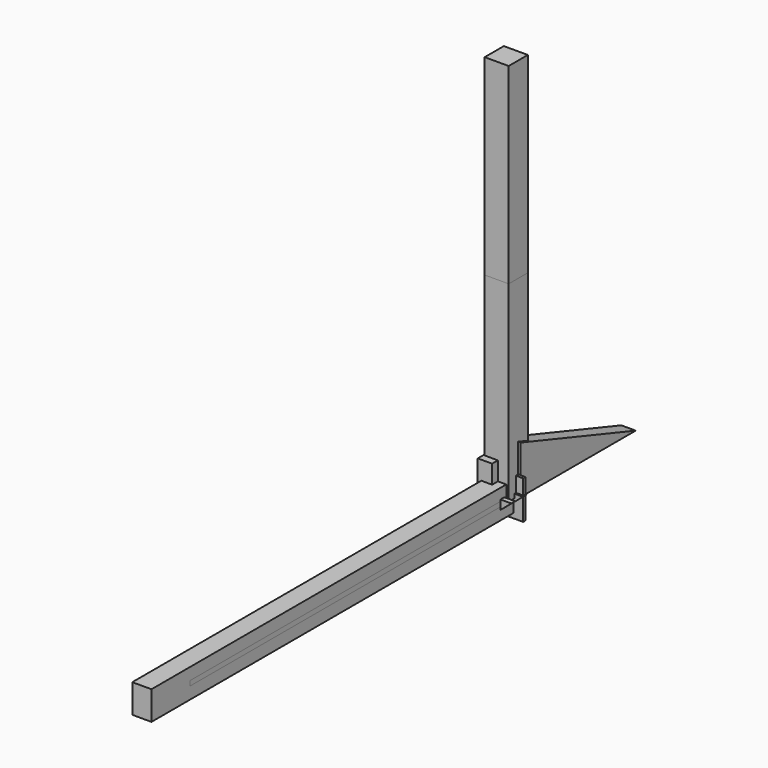
from build123d import *

# Parameters (mm, degrees)
F0_W      = 250
F0_H      = 250
F1_DEPTH  = 4000
F2_W      = 200
F2_H      = 50
F3_DEPTH  = 3500
F4_W      = 200
F4_H      = 300
F5_DEPTH  = 4750
F7_DEPTH  = 200
F8_W      = 300
F8_H      = 100
F9_DEPTH  = 300.001
F10_W     = 200
F10_H     = 50
F11_DEPTH = 4250
F12_W     = 100
F12_H     = 100
F13_DEPTH = 300
F14_W     = 400
F14_H     = 400
F15_DEPTH = 30
F17_DEPTH = 150
F18_W     = 250
F18_H     = 250
F19_DEPTH = 2000


with BuildPart() as f1:
    # F0 (on Top) → F1 (new body)
    with BuildSketch(Plane.XY):
        Rectangle(F0_W, F0_H)
    extrude(amount=F1_DEPTH)


with BuildPart() as f3:
    # F2 (on Top) → F3 (new body)
    with BuildSketch(Plane.XY):
        Rectangle(F2_W, F2_H)
    extrude(amount=F3_DEPTH)


with BuildPart() as f5:
    # F4 (on Front) → F5 (new body)
    with BuildSketch(Plane.XZ):
        Rectangle(F4_W, F4_H)
    extrude(amount=F5_DEPTH)


with BuildPart() as f7:
    # F6 (on Front) → F7 (new body)
    with BuildSketch(Plane.XZ):
        Polygon((212.7028834443, 42.9310392426), (-137.2971165557, 42.9310392426), (-137.2971165557, -257.0689607574), align=None)
    extrude(amount=F7_DEPTH)

    # F8 (on face) → F9 (cut, through all)
    with BuildSketch(Plane.XY.offset(42.9310392426)):
        with Locations((62.7028834443, -100)):
            Rectangle(F8_W, F8_H)
    extrude(amount=-F9_DEPTH, mode=Mode.SUBTRACT)

    # F12 (on face) → F13 (join)
    with BuildSketch(Plane.XY.offset(42.9310392426)):
        Polygon((12.7028834443, 0), (-137.2971165557, 0), (-137.2971165557, -200), (12.7028834443, -200), (12.7028834443, -150), (-87.2971165557, -150), (-87.2971165557, -50), (12.7028834443, -50), align=None)
        with Locations((-37.2971165557, -100)):
            Rectangle(F12_W, F12_H)
    extrude(amount=F13_DEPTH)


with BuildPart() as f11:
    # F10 (on Front) → F11 (new body)
    with BuildSketch(Plane.XZ):
        Rectangle(F10_W, F10_H)
    extrude(amount=F11_DEPTH)


with BuildPart() as f15:
    # F14 (on Front) → F15 (new body)
    with BuildSketch(Plane.XZ):
        Rectangle(F14_W, F14_H)
    extrude(amount=F15_DEPTH)


with BuildPart() as f17:
    # F16 (on Right) → F17 (new body)
    with BuildSketch(Plane.YZ):
        Polygon((0, 500), (0, 0), (1500, 0), align=None)
    extrude(amount=F17_DEPTH)


with BuildPart() as f19:
    # F18 (on Top) → F19 (new body)
    with BuildSketch(Plane.XY):
        Rectangle(F18_W, F18_H)
    extrude(amount=F19_DEPTH)


solid = Compound([f1.part, f3.part, f5.part, f7.part, f11.part, f15.part, f17.part, f19.part])
